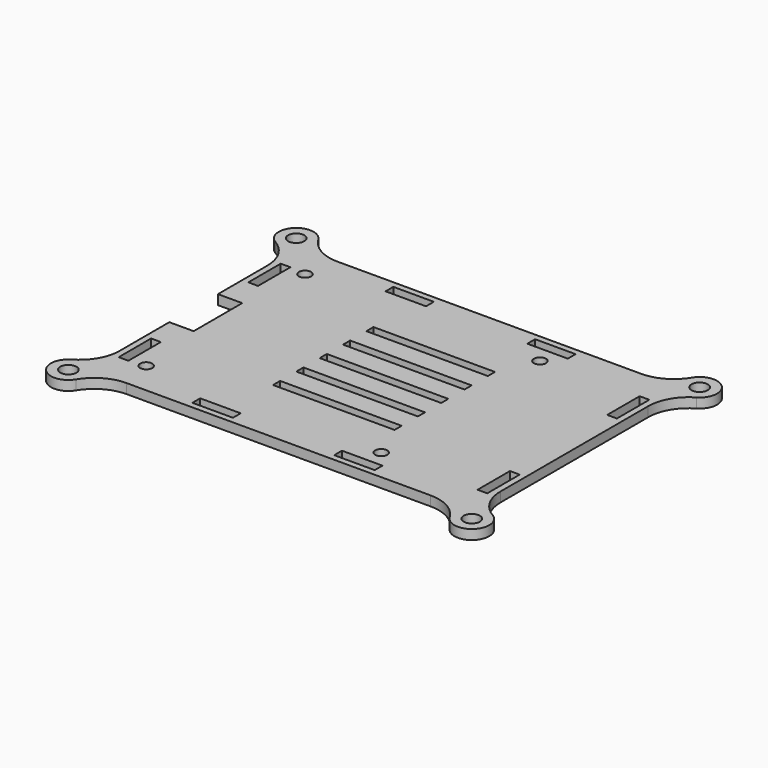
from build123d import *

# Parameters (mm, degrees)
F0_R     = 2
F0_W     = 2.4
F0_H     = 10
F0_R_2   = 1.5
F0_W_2   = 10
F0_H_2   = 2.4
F0_W_3   = 30
F0_H_3   = 2.2
F1_DEPTH = 2.4


with BuildPart() as f1:
    # F0 (on Top) → F1 (new body)
    with BuildSketch(Plane.XY):
        with BuildLine():
            ThreePointArc((46.111466, 37.36014), (42.463054, 33.799465), (37.533481, 32.5))
            Line((37.533481, 32.5), (-37.533481, 32.5))
            ThreePointArc((-37.533481, 32.5), (-42.463054, 33.799465), (-46.111466, 37.36014))
            ThreePointArc((-46.111466, 37.36014), (-52.859026, 38.171979), (-51.965035, 31.434812))
            ThreePointArc((-51.965035, 31.434812), (-48.329658, 27.777326), (-47, 22.794839))
            Line((-47, 22.794839), (-47, 7.5))
            Line((-47, 7.5), (-41, 7.5))
            Line((-41, 7.5), (-41, -7.5))
            Line((-41, -7.5), (-47, -7.5))
            Line((-47, -7.5), (-47, -22.794839))
            ThreePointArc((-47, -22.794839), (-48.329658, -27.777326), (-51.965035, -31.434812))
            ThreePointArc((-51.965035, -31.434812), (-52.859026, -38.171979), (-46.111466, -37.36014))
            ThreePointArc((-46.111466, -37.36014), (-42.463054, -33.799465), (-37.533481, -32.5))
            Line((-37.533481, -32.5), (37.533481, -32.5))
            ThreePointArc((37.533481, -32.5), (42.463054, -33.799465), (46.111466, -37.36014))
            ThreePointArc((46.111466, -37.36014), (52.859026, -38.171979), (51.965035, -31.434812))
            ThreePointArc((51.965035, -31.434812), (48.329658, -27.777326), (47, -22.794839))
            Line((47, -22.794839), (47, 22.794839))
            ThreePointArc((47, 22.794839), (48.329658, 27.777326), (51.965035, 31.434812))
            ThreePointArc((51.965035, 31.434812), (52.859026, 38.171979), (46.111466, 37.36014))
        make_face()
        with Locations((-49.8, -35.15)):
            Circle(F0_R, mode=Mode.SUBTRACT)
        with Locations((-44.3, -20)):
            Rectangle(F0_W, F0_H, mode=Mode.SUBTRACT)
        with Locations((-39.1, -24.5)):
            Circle(F0_R_2, mode=Mode.SUBTRACT)
        with Locations((-17.5, -29.8)):
            Rectangle(F0_W_2, F0_H_2, mode=Mode.SUBTRACT)
        with Locations((17.5, -29.8)):
            Rectangle(F0_W_2, F0_H_2, mode=Mode.SUBTRACT)
        with Locations((18.9, -24.5)):
            Circle(F0_R_2, mode=Mode.SUBTRACT)
        with Locations((49.8, -35.15)):
            Circle(F0_R, mode=Mode.SUBTRACT)
        with Locations((44.3, -20)):
            Rectangle(F0_W, F0_H, mode=Mode.SUBTRACT)
        with Locations((0, -14.4)):
            Rectangle(F0_W_3, F0_H_3, mode=Mode.SUBTRACT)
        with Locations((0, -7.2)):
            Rectangle(F0_W_3, F0_H_3, mode=Mode.SUBTRACT)
        with Locations((-44.3, 20)):
            Rectangle(F0_W, F0_H, mode=Mode.SUBTRACT)
        with Locations((-39.1, 24.5)):
            Circle(F0_R_2, mode=Mode.SUBTRACT)
        with Locations((-49.8, 35.15)):
            Circle(F0_R, mode=Mode.SUBTRACT)
        with Locations((-17.5, 29.8)):
            Rectangle(F0_W_2, F0_H_2, mode=Mode.SUBTRACT)
        Rectangle(F0_W_3, F0_H_3, mode=Mode.SUBTRACT)
        with Locations((0, 7.2)):
            Rectangle(F0_W_3, F0_H_3, mode=Mode.SUBTRACT)
        with Locations((0, 14.4)):
            Rectangle(F0_W_3, F0_H_3, mode=Mode.SUBTRACT)
        with Locations((18.9, 24.5)):
            Circle(F0_R_2, mode=Mode.SUBTRACT)
        with Locations((17.5, 29.8)):
            Rectangle(F0_W_2, F0_H_2, mode=Mode.SUBTRACT)
        with Locations((44.3, 20)):
            Rectangle(F0_W, F0_H, mode=Mode.SUBTRACT)
        with Locations((49.8, 35.15)):
            Circle(F0_R, mode=Mode.SUBTRACT)
    extrude(amount=F1_DEPTH)


solid = f1.part
